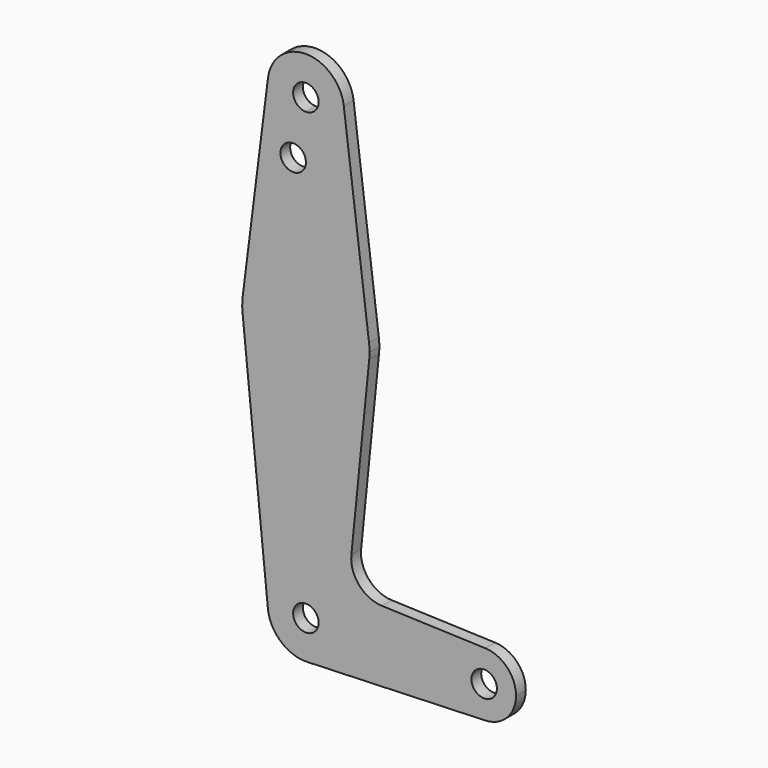
from build123d import *

# Parameters (mm, degrees)
F0_R     = 3.175
F1_DEPTH = 3.048


with BuildPart() as f1:
    # F0 (on Front) → F1 (new body)
    with BuildSketch(Plane.XZ):
        with BuildLine():
            ThreePointArc((3.175, 0), (-2.2450640303, -2.2450640303), (0, 3.175))
            Line((0, 3.175), (0, 9.525))
            ThreePointArc((0, 9.525), (-7.063929059, 6.3895642457), (-9.4772553384, -0.9525))
            ThreePointArc((-9.4772553384, -0.9525), (-6.2623833432, -7.1769199426), (0.3401786733, -9.5189234407))
            ThreePointArc((0.3401786733, -9.5189234407), (6.854408321, -6.6138273011), (9.525, 0))
            Line((9.525, 0), (3.175, 0))
        make_face()
        with BuildLine():
            ThreePointArc((-9.4772553384, -0.9525), (-7.063929059, 6.3895642457), (0, 9.525))
            Line((0, 9.525), (0, 47.625))
            ThreePointArc((0, 47.625), (-10.6492737428, 51.7267849017), (-15.7954255641, 61.9125))
            Line((-15.7954255641, 61.9125), (-9.4772553384, -0.9525))
        make_face()
        with BuildLine():
            Line((0, 47.625), (0, 9.525))
            ThreePointArc((0, 9.525), (6.7351920908, 6.7351920908), (9.525, 0))
            Line((9.525, 0), (36.5125, 0))
            ThreePointArc((36.5125, 0), (38.9384772185, 5.7120069047), (44.7334821429, 7.9324362036))
            Line((44.7334821429, 7.9324362036), (18.9676000005, 8.8532337108))
            ThreePointArc((18.9676000005, 8.8532337108), (13.2611998974, 11.5713591498), (11.3411865923, 17.5933818124))
            Line((11.3411865923, 17.5933818124), (15.7954255641, 61.9125))
            ThreePointArc((15.7954255641, 61.9125), (10.6492737428, 51.7267849017), (0, 47.625))
        make_face()
        with BuildLine():
            Line((36.5125, 0), (9.525, 0))
            ThreePointArc((9.525, 0), (6.854408321, -6.6138273011), (0.3401786733, -9.5189234407))
            Line((0.3401786733, -9.5189234407), (44.7334821429, -7.9324362036))
            ThreePointArc((44.7334821429, -7.9324362036), (38.9384772185, -5.7120069047), (36.5125, 0))
        make_face()
        with BuildLine():
            ThreePointArc((-15.7954255641, 61.9125), (-10.6492737428, 51.7267849017), (0, 47.625))
            Line((0, 47.625), (0, 79.375))
            ThreePointArc((0, 79.375), (-10.5003255158, 75.40625), (-15.7504882737, 65.484375))
            ThreePointArc((-15.7504882737, 65.484375), (-15.8737438155, 63.6997054867), (-15.7954255641, 61.9125))
        make_face()
        with BuildLine():
            Line((0, 79.375), (0, 47.625))
            ThreePointArc((0, 47.625), (10.6492737428, 51.7267849017), (15.7954255641, 61.9125))
            ThreePointArc((15.7954255641, 61.9125), (15.8550939106, 62.7052534459), (15.875, 63.5))
            ThreePointArc((15.875, 63.5), (15.8438414904, 64.4941387366), (15.7504882737, 65.484375))
            ThreePointArc((15.7504882737, 65.484375), (10.5003255158, 75.40625), (0, 79.375))
        make_face()
        with BuildLine():
            ThreePointArc((44.7334821429, 7.9324362036), (38.9384772185, 5.7120069047), (36.5125, 0))
            ThreePointArc((36.5125, 0), (38.9384772185, -5.7120069047), (44.7334821429, -7.9324362036))
            ThreePointArc((44.7334821429, -7.9324362036), (50.1620069047, -5.5115227815), (52.3875, 0))
            ThreePointArc((52.3875, 0), (50.1620069047, 5.5115227815), (44.7334821429, 7.9324362036))
        make_face()
        with BuildLine():
            ThreePointArc((47.625, 0), (44.45, -3.175), (41.275, 0))
            ThreePointArc((41.275, 0), (44.45, 3.175), (47.625, 0))
        make_face(mode=Mode.SUBTRACT)
        with BuildLine():
            ThreePointArc((-15.7504882737, 65.484375), (-10.5003255158, 75.40625), (0, 79.375))
            Line((0, 79.375), (0, 100.0252))
            Line((0, 100.0252), (0, 104.775))
            ThreePointArc((0, 104.775), (-7.14375, 107.9998046905), (-9.4502929642, 115.490625))
            Line((-9.4502929642, 115.490625), (-15.7504882737, 65.484375))
        make_face()
        with Locations((-3.175, 100.0252)):
            Circle(F0_R, mode=Mode.SUBTRACT)
        with BuildLine():
            Line((0, 100.0252), (0, 79.375))
            ThreePointArc((0, 79.375), (10.5003255158, 75.40625), (15.7504882737, 65.484375))
            Line((15.7504882737, 65.484375), (9.4502929642, 115.490625))
            ThreePointArc((9.4502929642, 115.490625), (9.5063048942, 114.896483242), (9.525, 114.3))
            ThreePointArc((9.525, 114.3), (6.7351920908, 107.5648079092), (0, 104.775))
            Line((0, 104.775), (0, 100.0252))
        make_face()
        with BuildLine():
            ThreePointArc((-9.4502929642, 115.490625), (-7.14375, 107.9998046905), (0, 104.775))
            ThreePointArc((0, 104.775), (6.7351920908, 107.5648079092), (9.525, 114.3))
            ThreePointArc((9.525, 114.3), (9.5063048942, 114.896483242), (9.4502929642, 115.490625))
            ThreePointArc((9.4502929642, 115.490625), (0, 123.825), (-9.4502929642, 115.490625))
        make_face()
        with BuildLine():
            ThreePointArc((3.175, 114.3), (2.2450640303, 112.0549359697), (0, 111.125))
            ThreePointArc((0, 111.125), (-2.2450640303, 116.5450640303), (3.175, 114.3))
        make_face(mode=Mode.SUBTRACT)
        with BuildLine():
            Line((0, 9.525), (0, 3.175))
            ThreePointArc((0, 3.175), (2.2450640303, 2.2450640303), (3.175, 0))
            Line((3.175, 0), (9.525, 0))
            ThreePointArc((9.525, 0), (6.7351920908, 6.7351920908), (0, 9.525))
        make_face()
    extrude(amount=F1_DEPTH)


solid = f1.part
